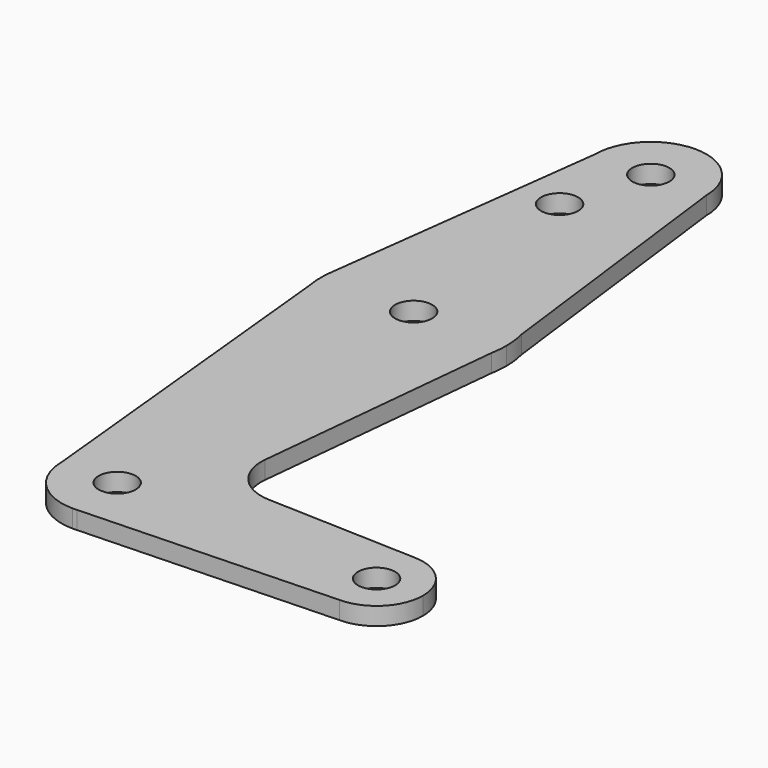
from build123d import *

# Parameters (mm, degrees)
F0_R     = 3.175
F1_DEPTH = 3.048


with BuildPart() as f1:
    # F0 (on Top) → F1 (new body)
    with BuildSketch(Plane.XY):
        with BuildLine():
            ThreePointArc((-9.525, 50.8), (0, 41.275), (9.525, 50.8))
            ThreePointArc((9.525, 50.8), (0, 60.325), (-9.525, 50.8))
        make_face()
        with Locations((0, 50.8)):
            Circle(F0_R, mode=Mode.SUBTRACT)
        with BuildLine():
            ThreePointArc((-15.6179425139, 2.8452586229), (-0.5379809307, 15.8658816811), (15.3893374567, 3.8966546733))
            Line((15.3893374567, 3.8966546733), (9.525, 50.8))
            ThreePointArc((9.525, 50.8), (0, 41.275), (-9.525, 50.8))
            Line((-9.525, 50.8), (-15.6179425139, 2.8452586229))
        make_face()
        with Locations((-4.2122863233, 36.5252)):
            Circle(F0_R, mode=Mode.SUBTRACT)
        with BuildLine():
            ThreePointArc((15.6179425139, -2.8452586229), (15.8106050234, -1.4284235351), (15.875, 0))
            ThreePointArc((15.875, 0), (15.7531164714, 1.9634017514), (15.3893374567, 3.8966546733))
            ThreePointArc((15.3893374567, 3.8966546733), (-0.5379809307, 15.8658816811), (-15.6179425139, 2.8452586229))
            ThreePointArc((-15.6179425139, 2.8452586229), (-15.875, 0), (-15.6179425139, -2.8452586229))
            ThreePointArc((-15.6179425139, -2.8452586229), (0, -15.875), (15.6179425139, -2.8452586229))
        make_face()
        Circle(F0_R, mode=Mode.SUBTRACT)
        with BuildLine():
            Line((11.2918749528, -45.9109052302), (15.6179425139, -2.8452586229))
            ThreePointArc((15.6179425139, -2.8452586229), (0, -15.875), (-15.6179425139, -2.8452586229))
            Line((-15.6179425139, -2.8452586229), (-9.525, -63.5))
            ThreePointArc((-9.525, -63.5), (0, -53.975), (9.525, -63.5))
            Line((9.525, -63.5), (36.5125, -63.5))
            ThreePointArc((36.5125, -63.5), (38.8373399243, -57.8873399243), (44.45, -55.5625))
            Line((44.45, -55.5625), (18.9185093348, -54.6506610477))
            ThreePointArc((18.9185093348, -54.6506610477), (13.2121195777, -51.9327483221), (11.2918749528, -45.9109052302))
        make_face()
        with BuildLine():
            ThreePointArc((9.525, -63.5), (0, -53.975), (-9.525, -63.5))
            ThreePointArc((-9.525, -63.5), (-6.7351920908, -70.2351920908), (0, -73.025))
            Line((0, -73.025), (0.6794904459, -73.0007324841))
            ThreePointArc((0.6794904459, -73.0007324841), (6.9712901065, -69.9905114784), (9.525, -63.5))
        make_face()
        with Locations((0, -63.5)):
            Circle(F0_R, mode=Mode.SUBTRACT)
        with BuildLine():
            Line((36.5125, -63.5), (9.525, -63.5))
            ThreePointArc((9.525, -63.5), (6.9712901065, -69.9905114784), (0.6794904459, -73.0007324841))
            Line((0.6794904459, -73.0007324841), (44.45, -71.4375))
            ThreePointArc((44.45, -71.4375), (38.8373399243, -69.1126600757), (36.5125, -63.5))
        make_face()
        with BuildLine():
            ThreePointArc((52.3875, -63.5), (50.0626600757, -57.8873399243), (44.45, -55.5625))
            ThreePointArc((44.45, -55.5625), (38.8373399243, -57.8873399243), (36.5125, -63.5))
            ThreePointArc((36.5125, -63.5), (38.8373399243, -69.1126600757), (44.45, -71.4375))
            ThreePointArc((44.45, -71.4375), (50.0626600757, -69.1126600757), (52.3875, -63.5))
        make_face()
        with BuildLine():
            ThreePointArc((47.625, -63.5), (44.45, -66.675), (41.275, -63.5))
            ThreePointArc((41.275, -63.5), (44.45, -60.325), (47.625, -63.5))
        make_face(mode=Mode.SUBTRACT)
    extrude(amount=F1_DEPTH)


solid = f1.part
